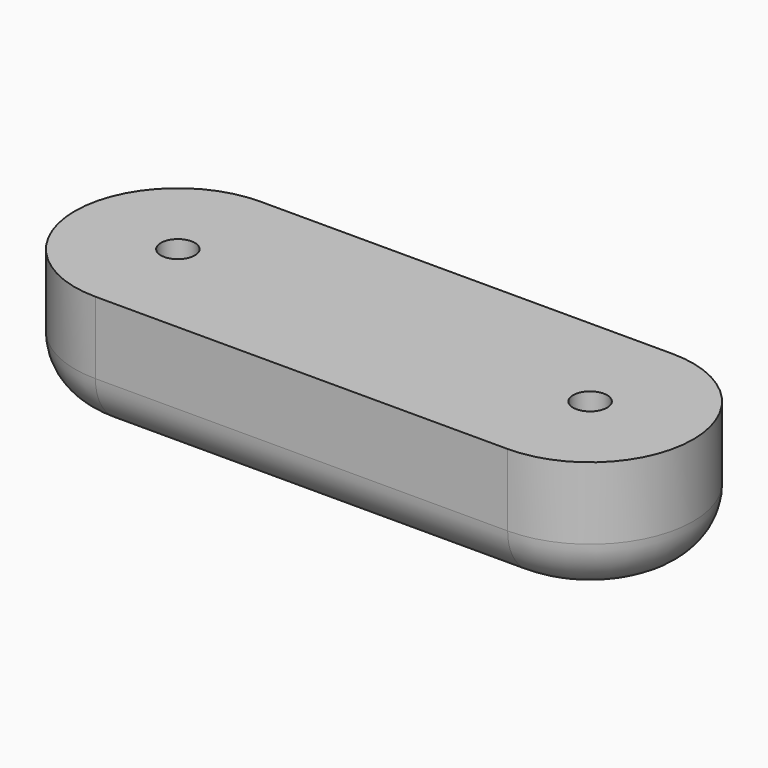
from build123d import *

# Parameters (mm, degrees)
F1_DEPTH       = 12
F2_D           = 3.3
F2_CBORE_D     = 6.5
F2_CBORE_DEPTH = 3
F3_R           = 5


with BuildPart() as f1:
    # F0 (on Top) → F1 (new body)
    with BuildSketch(Plane.XY):
        with BuildLine():
            Line((40, 10), (0, 10))
            ThreePointArc((0, 10), (-10, 0), (0, -10))
            Line((0, -10), (40, -10))
            ThreePointArc((40, -10), (50, 0), (40, 10))
        make_face()
    extrude(amount=F1_DEPTH)

    # F2 (through all)
    with Locations(Plane(origin=(0, 0, 0), x_dir=(1, 0, 0), z_dir=(0, 0, -1))):
        with Locations((40, 0), (0, 0)):
            CounterBoreHole(F2_D / 2, F2_CBORE_D / 2, F2_CBORE_DEPTH)

    # F3
    f3_edges = [f1.edges().sort_by_distance(p)[0] for p in [
        (20, -10, 0),
    ]]
    fillet(f3_edges, radius=F3_R)


solid = f1.part
